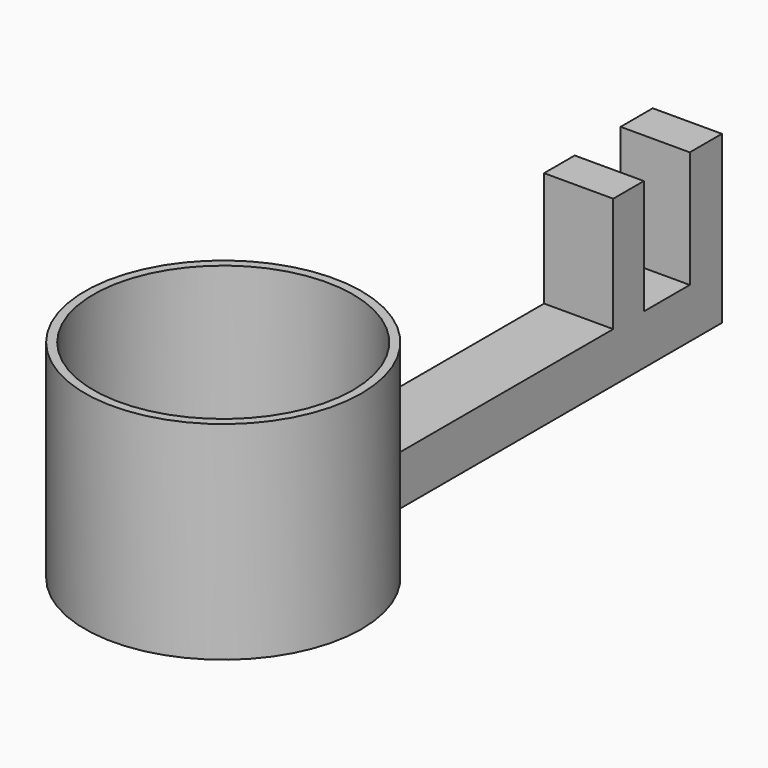
from build123d import *

# Parameters (mm, degrees)
F0_R     = 12.7
F1_DEPTH = 19.05
F2_R     = 11.90625
F3_DEPTH = 17.78
F5_DEPTH = 3.175


with BuildPart() as f1:
    # F0 (on Top) → F1 (new body)
    with BuildSketch(Plane.XY):
        with Locations((0, 0.932285)):
            Circle(F0_R)
    extrude(amount=F1_DEPTH)

    # F2 (on face) → F3 (cut)
    with BuildSketch(Plane.XY.offset(19.05)):
        with Locations((0, 0.932285)):
            Circle(F2_R)
    extrude(amount=-F3_DEPTH, mode=Mode.SUBTRACT)

    # F4 (on Right) → F5 (join, symmetric)
    with BuildSketch(Plane.YZ):
        Polygon((12.734854, 4.566981), (12.734854, 0), (54.188989, 0), (54.188989, 4.566981), (54.188989, 15.281822), (50.500277, 15.281822), (50.500277, 4.566981), (45.230679, 4.566981), (45.230679, 15.106169), (41.717619, 15.106169), (41.717619, 4.566981), align=None)
    extrude(amount=F5_DEPTH, both=True)


solid = f1.part
